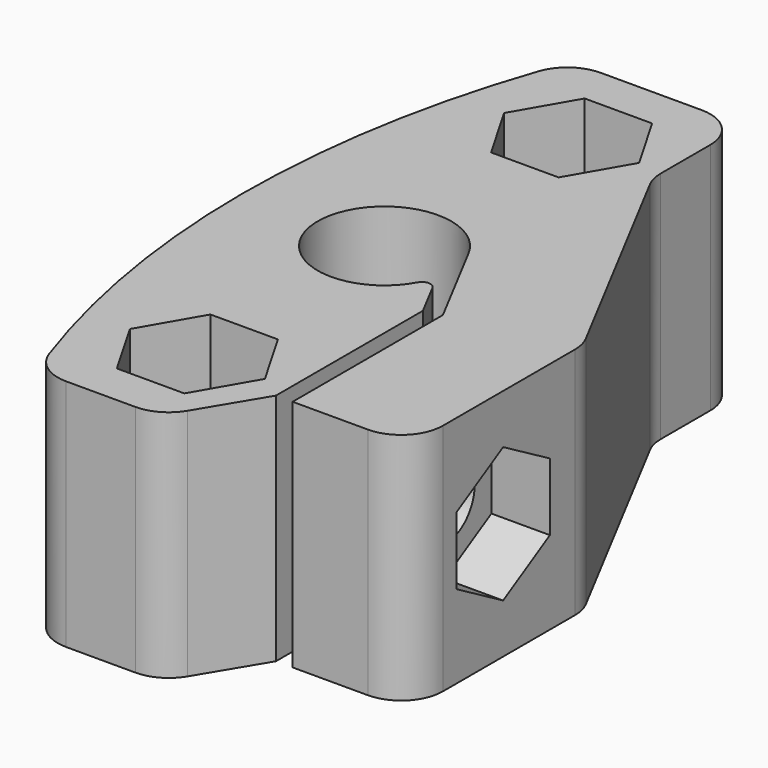
from build123d import *

# Parameters (mm, degrees)
SKETCH_R        = 2.1
PAD_DEPTH       = 7
SKETCH001_R     = 2.25
POCKET_DEPTH    = 22.001
POCKET001_DEPTH = 3.5
SKETCH003_R     = 4.3
POCKET002_DEPTH = 5
SKETCH004_R     = 62
SKETCH004_R_2   = 56
POCKET003_DEPTH = 14.001
CHAMFER_SIZE2   = 3
CHAMFER_SIZE    = 5
FILLET_R        = 2.5
FILLET001_R     = 0.5
POCKET004_DEPTH = 4
SKETCH006_R     = 2.1
PAD001_DEPTH    = 0.2


with BuildPart() as part:
    # Sketch → Pad (new body, symmetric)
    with BuildSketch(Plane.XY):
        with BuildLine():
            Line((-8.5, 20), (-8.5, -20))
            Line((-8.5, -20), (5.5, -20))
            Line((5.5, -20), (5.5, -4))
            Line((5.5, -4), (3.887632, -0.941445))
            ThreePointArc((3.538431, 1.865343), (-3.969398, -0.493844), (3.887632, -0.941445))
            Line((6.5, -3.752556), (3.538431, 1.865343))
            Line((6.5, -15), (6.5, -3.752556))
            Line((13.5, -15), (6.5, -15))
            Line((13.5, -2), (13.5, -15))
            Line((5.5, 13.175467), (13.5, -2))
            Line((5.5, 20), (5.5, 13.175467))
            Line((-8.5, 20), (5.5, 20))
        make_face()
        with Locations((0, 14)):
            Circle(SKETCH_R, mode=Mode.SUBTRACT)
        with Locations((0, -14)):
            Circle(SKETCH_R, mode=Mode.SUBTRACT)
    extrude(amount=PAD_DEPTH, both=True)

    # Sketch001 (on Face10 of Pad) → Pocket (cut, through all)
    with BuildSketch(Plane.YZ.offset(13.5)):
        with Locations((-8, 0)):
            Circle(SKETCH001_R)
    extrude(amount=-POCKET_DEPTH, mode=Mode.SUBTRACT)

    # Sketch002 (on Face15 of Pocket) → Pocket001 (cut)
    with BuildSketch(Plane.YZ.offset(13.5)):
        Polygon((-4.5, 2.020726), (-8, 4.041452), (-11.5, 2.020726), (-11.5, -2.020726), (-8, -4.041452), (-4.5, -2.020726), align=None)
    extrude(amount=-POCKET001_DEPTH, mode=Mode.SUBTRACT)

    # Sketch003 (on Face2 of Pocket001) → Pocket002 (cut)
    with BuildSketch(Plane(origin=(-8.5, 0, 0), x_dir=(0, -1, 0), z_dir=(-1, 0, 0))):
        with Locations((8, 0)):
            Circle(SKETCH003_R)
    extrude(amount=-POCKET002_DEPTH, mode=Mode.SUBTRACT)

    # Sketch004 (on Face5 of Pocket002) → Pocket003 (cut, through all)
    with BuildSketch(Plane.XY.offset(7)):
        with Locations((47.5, 0)):
            Circle(SKETCH004_R)
        with Locations((47.5, 0)):
            Circle(SKETCH004_R_2, mode=Mode.SUBTRACT)
    extrude(amount=-POCKET003_DEPTH, mode=Mode.SUBTRACT)

    # Chamfer
    chamfer_edges = [part.edges().sort_by_distance(p)[0] for p in [
        (5.5, -20, 0),
    ]]
    chamfer_side = part.faces().sort_by_distance((5.5, -12.305712, 0))[0]
    chamfer(chamfer_edges, length=CHAMFER_SIZE, length2=CHAMFER_SIZE2, reference=chamfer_side)

    # Fillet
    fillet_edges = [part.edges().sort_by_distance(p)[0] for p in [
        (2.5, -20, 0),
        (-4.806787, -20, 0),
        (13.5, -15, 0),
        (5.5, 20, 0),
        (13.5, -2, 0),
        (5.5, 13.175467, 0),
        (-4.806787, 20, 0),
    ]]
    fillet(fillet_edges, radius=FILLET_R)

    # Fillet001
    fillet001_edges = [part.edges().sort_by_distance(p)[0] for p in [
        (3.887632, -0.941445, 0),
    ]]
    fillet(fillet001_edges, radius=FILLET001_R)

    # Sketch005 (on Face1 of Fillet001) → Pocket004 (cut)
    with BuildSketch(Plane(origin=(0, 0, -7), x_dir=(1, 0, 0), z_dir=(0, 0, -1))):
        Polygon((4.041452, 14), (2.020726, 17.5), (-2.020726, 17.5), (-4.041452, 14), (-2.020726, 10.5), (2.020726, 10.5), align=None)
        Polygon((4.041452, -14), (2.020726, -10.5), (-2.020726, -10.5), (-4.041452, -14), (-2.020726, -17.5), (2.020726, -17.5), align=None)
    pocket004 = extrude(amount=-POCKET004_DEPTH, mode=Mode.SUBTRACT)

    # Mirrored: Pocket004 across XY
    add(pocket004.mirror(Plane.XY), mode=Mode.SUBTRACT)

    # Sketch006 (on Face46 of Mirrored) → Pad001 (join)
    with BuildSketch(Plane(origin=(0, 0, -3), x_dir=(1, 0, 0), z_dir=(0, 0, -1))):
        with Locations((0, 14)):
            Circle(SKETCH006_R)
        with Locations((0, -14)):
            Circle(SKETCH006_R)
    extrude(amount=-PAD001_DEPTH)


solid = part.part
